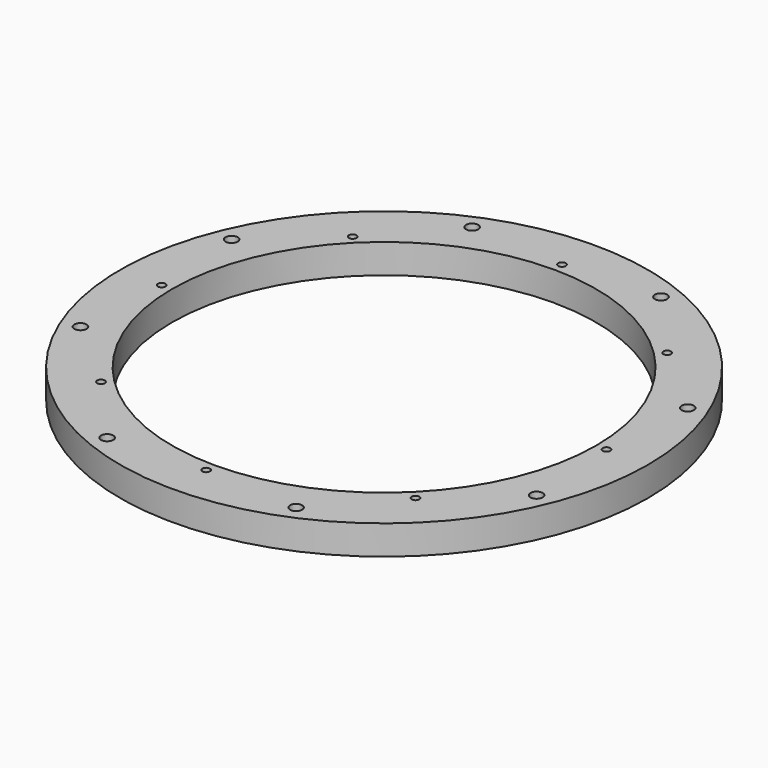
from build123d import *

# Parameters (mm, degrees)
SKETCH001_R       = 108
SKETCH001_R_2     = 86.75
SKETCH001_R_3     = 2.5
PAD_DEPTH         = 12
SKETCH_R          = 1.5625
POCKET_DEPTH      = 12.001
POCKET_DEPTH_BACK = 0.001


with BuildPart() as part:
    # Sketch001 → Pad (new body)
    with BuildSketch(Plane(origin=(0, 0, 0), x_dir=(1, 0, 0), z_dir=(0, 0, -1))):
        Circle(SKETCH001_R)
        Circle(SKETCH001_R_2, mode=Mode.SUBTRACT)
        with Locations((38.651027, 93.311833)):
            Circle(SKETCH001_R_3, mode=Mode.SUBTRACT)
        with Locations((93.311833, 38.651027)):
            Circle(SKETCH001_R_3, mode=Mode.SUBTRACT)
        with Locations((93.311833, -38.651027)):
            Circle(SKETCH001_R_3, mode=Mode.SUBTRACT)
        with Locations((38.651027, -93.311833)):
            Circle(SKETCH001_R_3, mode=Mode.SUBTRACT)
        with Locations((-38.651027, 93.311833)):
            Circle(SKETCH001_R_3, mode=Mode.SUBTRACT)
        with Locations((-93.311833, 38.651027)):
            Circle(SKETCH001_R_3, mode=Mode.SUBTRACT)
        with Locations((-93.311833, -38.651027)):
            Circle(SKETCH001_R_3, mode=Mode.SUBTRACT)
        with Locations((-38.651027, -93.311833)):
            Circle(SKETCH001_R_3, mode=Mode.SUBTRACT)
    extrude(amount=PAD_DEPTH)

    # Sketch → Pocket (cut, two sides)
    with BuildSketch(Plane.XY) as pocket_sk:
        with Locations((64.346717, 64.346717)):
            Circle(SKETCH_R)
        with Locations((0, 91)):
            Circle(SKETCH_R)
        with Locations((91, 0)):
            Circle(SKETCH_R)
        with Locations((64.346717, -64.346717)):
            Circle(SKETCH_R)
        with Locations((0, -91)):
            Circle(SKETCH_R)
        with Locations((-91, 0)):
            Circle(SKETCH_R)
        with Locations((-64.346717, -64.346717)):
            Circle(SKETCH_R)
        with Locations((-64.346717, 64.346717)):
            Circle(SKETCH_R)
    extrude(amount=-POCKET_DEPTH, mode=Mode.SUBTRACT)
    extrude(pocket_sk.sketch, amount=POCKET_DEPTH_BACK, mode=Mode.SUBTRACT)


solid = part.part
